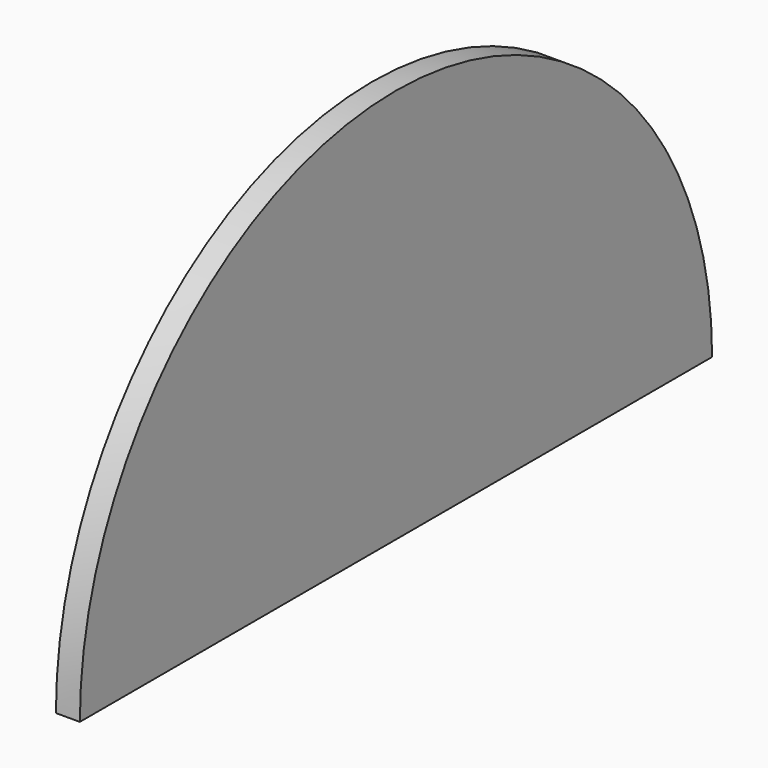
from build123d import *

# Parameters (mm, degrees)
F1_DEPTH = 1


with BuildPart() as f1:
    # F0 (on Right) → F1 (new body)
    with BuildSketch(Plane.YZ):
        with BuildLine():
            ThreePointArc((-8.786698, 17.628441), (-25.286698, 34.128441), (-41.786698, 17.628441))
            Line((-41.786698, 17.628441), (-25.286698, 17.628441))
            Line((-25.286698, 17.628441), (-8.786698, 17.628441))
        make_face()
    extrude(amount=F1_DEPTH)


solid = f1.part
